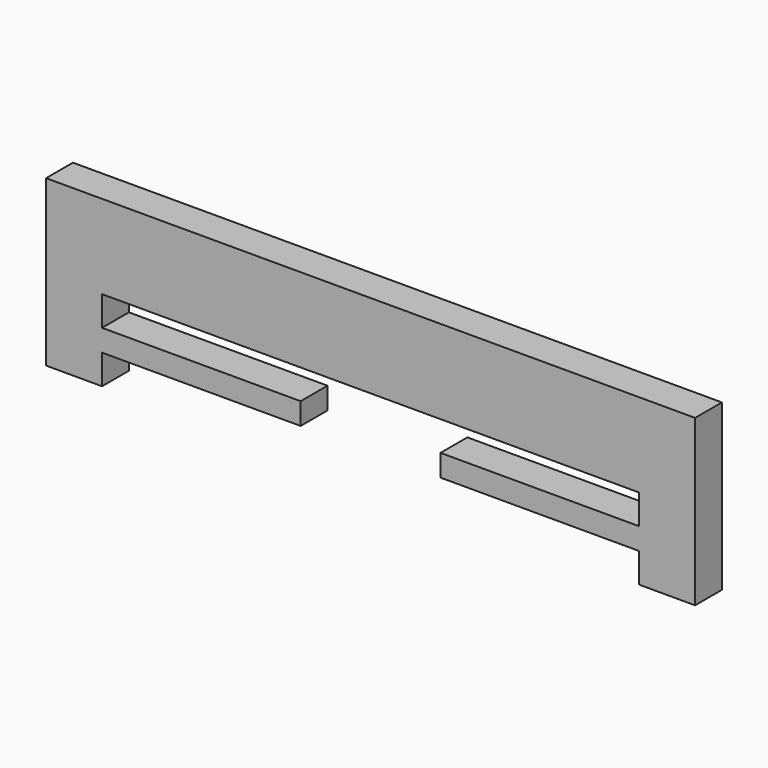
from build123d import *

# Parameters (mm, degrees)
F1_DEPTH = 6


with BuildPart() as f1:
    # F0 (on Front) → F1 (new body)
    with BuildSketch(Plane.XZ):
        Polygon((-58, 29.5), (-58, 0), (-48, 0), (-48, 5.3), (-12.5, 5.3), (-12.5, 9.2), (-48, 9.2), (-48, 14.5), (0, 14.5), (48, 14.5), (48, 9.2), (12.5, 9.2), (12.5, 5.3), (48, 5.3), (48, 0), (58, 0), (58, 29.5), align=None)
    extrude(amount=F1_DEPTH)


solid = f1.part
